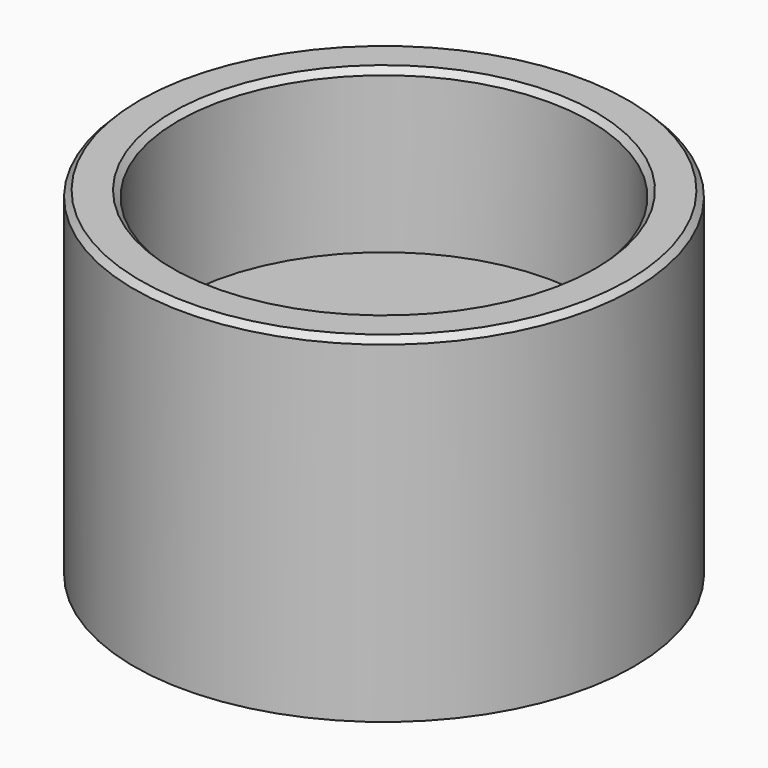
from build123d import *

# Parameters (mm, degrees)
F0_R     = 4.25
F1_DEPTH = 3
F2_R     = 4.25
F2_R_2   = 3.5
F3_DEPTH = 2.75
F4_R     = 0.5
F5_DEPTH = 1
F6_SIZE  = 0.1


with BuildPart() as f1:
    # F0 (on Top) → F1 (new body)
    with BuildSketch(Plane.XY):
        Circle(F0_R)
    extrude(amount=F1_DEPTH)

    # F2 (on face) → F3 (join)
    with BuildSketch(Plane.XY.offset(3)):
        Circle(F2_R)
        Circle(F2_R_2, mode=Mode.SUBTRACT)
    extrude(amount=F3_DEPTH)

    # F4 (on face) → F5 (join)
    with BuildSketch(Plane(origin=(0, 0, 0), x_dir=(1, 0, 0), z_dir=(0, 0, -1))):
        with Locations((-2, 0)):
            Circle(F4_R)
        with Locations((2, 0)):
            Circle(F4_R)
    extrude(amount=F5_DEPTH)

    # F6
    f6_edges = [f1.edges().sort_by_distance(p)[0] for p in [
        (-3.5, 0, 5.75),
        (-4.25, 0, 5.75),
    ]]
    chamfer(f6_edges, length=F6_SIZE)


solid = f1.part
